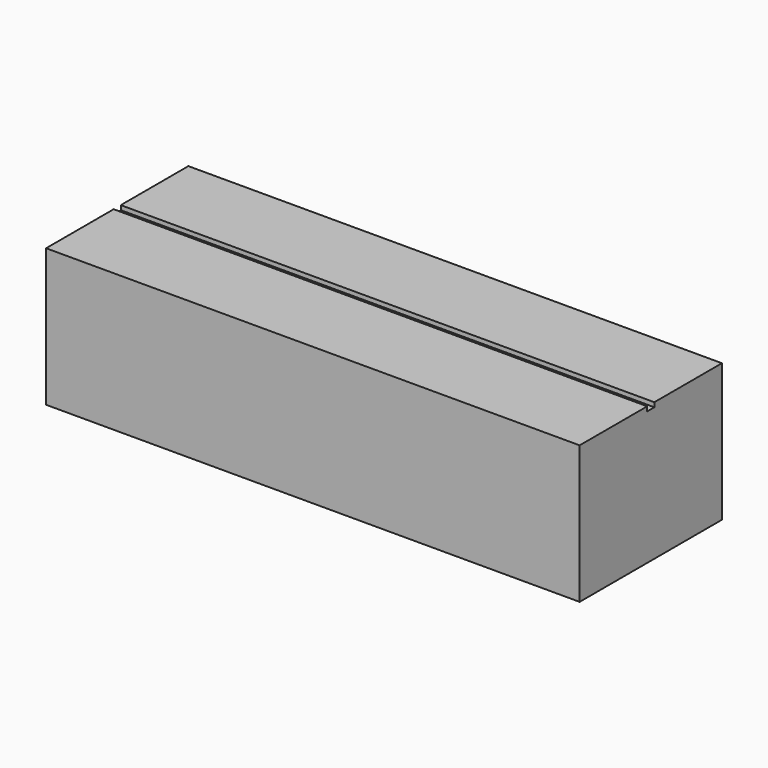
from build123d import *

# Parameters (mm, degrees)
F0_W     = 400
F0_H     = 310
F1_DEPTH = 1200
F2_W     = 20
F2_H     = 10
F3_DEPTH = 1250


with BuildPart() as f1:
    # F0 (on Right) → F1 (new body)
    with BuildSketch(Plane.YZ):
        with Locations((39.391704, 18.56401)):
            Rectangle(F0_W, F0_H)
    extrude(amount=-F1_DEPTH)

    # F2 (on face) → F3 (cut)
    with BuildSketch(Plane.YZ):
        with Locations((39.391704, 168.56401)):
            Rectangle(F2_W, F2_H)
    extrude(amount=-F3_DEPTH, mode=Mode.SUBTRACT)


solid = f1.part
